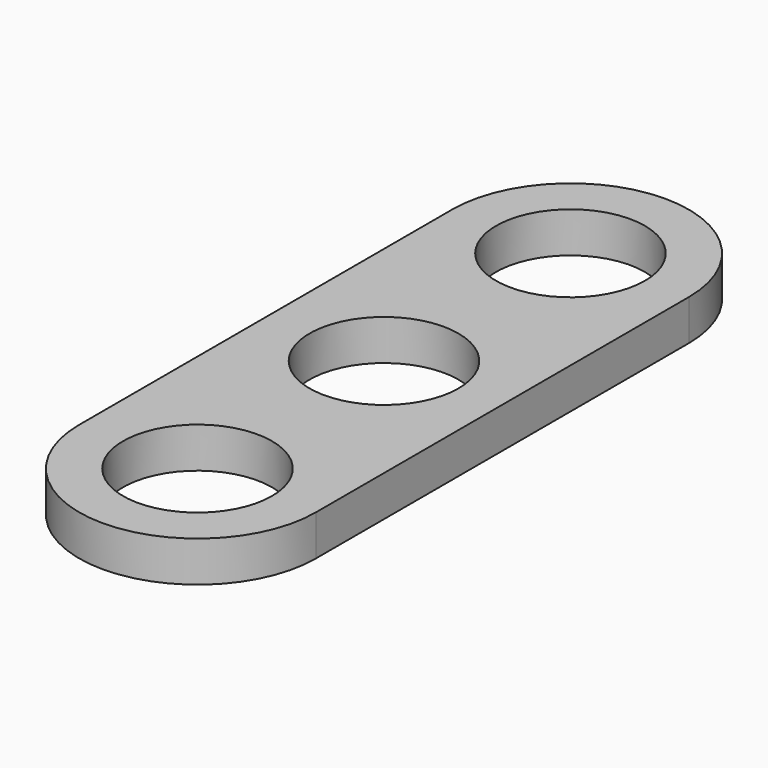
from build123d import *

# Parameters (mm, degrees)
F0_R     = 11
F1_DEPTH = 6


with BuildPart() as f1:
    # F0 (on Top) → F1 (new body)
    with BuildSketch(Plane.XY):
        with BuildLine():
            Line((17.5, 0), (17.5, 34.448819))
            ThreePointArc((17.5, 34.448819), (0, 51.948819), (-17.5, 34.448819))
            Line((-17.5, 34.448819), (-17.5, -34.448819))
            ThreePointArc((-17.5, -34.448819), (0, -51.948819), (17.5, -34.448819))
            Line((17.5, -34.448819), (17.5, 0))
        make_face()
        with Locations((0, -34.448819)):
            Circle(F0_R, mode=Mode.SUBTRACT)
        with BuildLine():
            ThreePointArc((-11, 0), (0, 11), (11, 0))
            ThreePointArc((11, 0), (0, -11), (-11, 0))
        make_face(mode=Mode.SUBTRACT)
        with Locations((0, 34.448819)):
            Circle(F0_R, mode=Mode.SUBTRACT)
    extrude(amount=F1_DEPTH)


solid = f1.part
